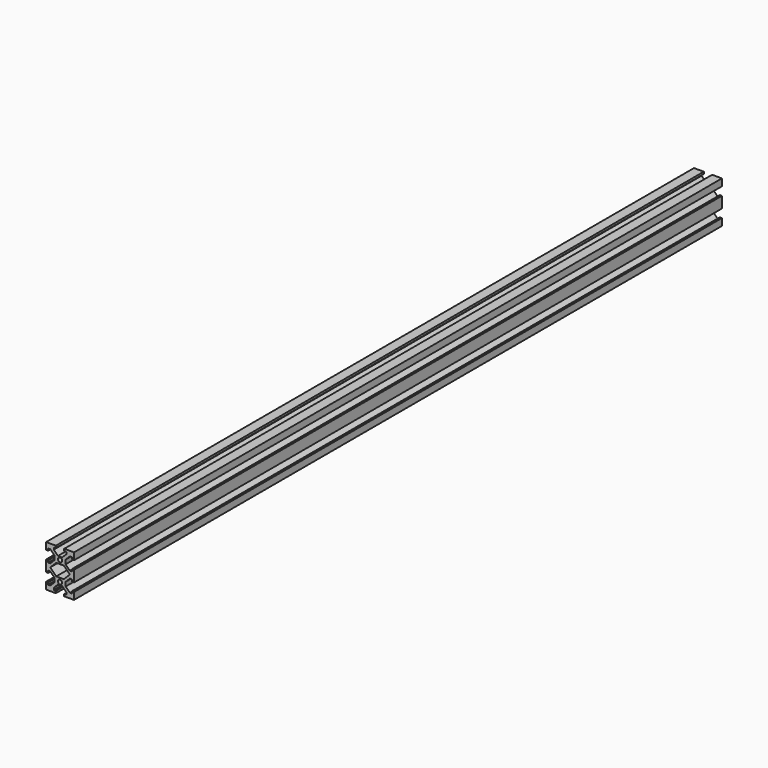
from build123d import *

# Parameters (mm, degrees)
SKETCH_R  = 1.5
PAD_DEPTH = 290


with BuildPart() as part:
    # Sketch → Pad (new body, symmetric)
    with BuildSketch(Plane.XZ):
        Polygon((-10, 30), (-3, 30), (-3, 28.5), (-4.5, 28.5), (-4.5, 27), (-1.5, 24), (1.5, 24), (4.5, 27), (4.5, 28.5), (3, 28.5), (3, 30), (10, 30), (10, 25), (8.5, 25), (8.5, 26.5), (7, 26.5), (4, 23.5), (4, 20.5), (7, 17.5), (8.5, 17.5), (8.5, 19), (10, 19), (10, 11), (8.5, 11), (8.5, 12.5), (7, 12.5), (4, 9.5), (4, 6.5), (7, 3.5), (8.5, 3.5), (8.5, 5), (10, 5), (10, 0), (3, 0), (3, 1.5), (4.5, 1.5), (4.5, 3), (1.5, 6), (-1.5, 6), (-4.5, 3), (-4.5, 1.5), (-3, 1.5), (-3, 0), (-10, 0), (-10, 5), (-8.5, 5), (-8.5, 3.5), (-7, 3.5), (-4, 6.5), (-4, 9.5), (-7, 12.5), (-8.5, 12.5), (-8.5, 11), (-10, 11), (-10, 19), (-8.5, 19), (-8.5, 17.5), (-7, 17.5), (-4, 20.5), (-4, 23.5), (-7, 26.5), (-8.5, 26.5), (-8.5, 25), (-10, 25), align=None)
        with Locations((0, 8)):
            Circle(SKETCH_R, mode=Mode.SUBTRACT)
        with Locations((0, 22)):
            Circle(SKETCH_R, mode=Mode.SUBTRACT)
        Polygon((-7, 15), (-2.716354, 19.283646), (2.716354, 19.283646), (7, 15), (2.716354, 10.716354), (-2.716354, 10.716354), align=None, mode=Mode.SUBTRACT)
    extrude(amount=PAD_DEPTH, both=True)


solid = part.part
